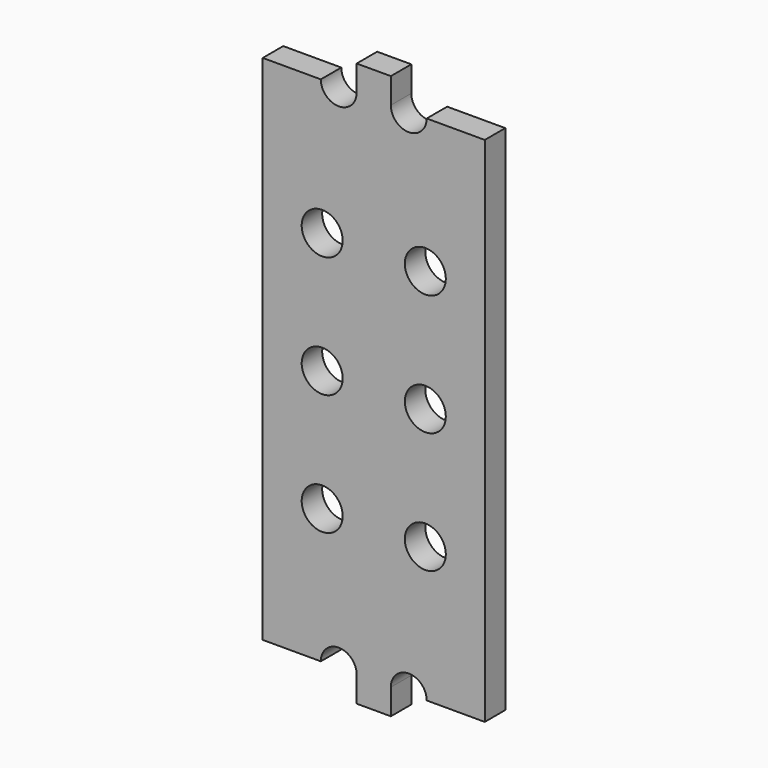
from build123d import *

# Parameters (mm, degrees)
F0_R     = 1.2
F1_DEPTH = 1.5


with BuildPart() as f1:
    # F0 (on Front) → F1 (new body)
    with BuildSketch(Plane.XZ):
        with BuildLine():
            ThreePointArc((-1, 15), (-2.05, 13.95), (-3.1, 15))
            Line((-3.1, 15), (-6.5, 15))
            Line((-6.5, 15), (-6.5, 0))
            Line((-6.5, 0), (-6.5, -15))
            Line((-6.5, -15), (-3.1, -15))
            ThreePointArc((-3.1, -15), (-2.05, -13.95), (-1, -15))
            Line((-1, -15), (-1, -16.5))
            Line((-1, -16.5), (1, -16.5))
            Line((1, -16.5), (1, -15))
            ThreePointArc((1, -15), (2.05, -13.95), (3.1, -15))
            Line((3.1, -15), (6.5, -15))
            Line((6.5, -15), (6.5, 0))
            Line((6.5, 0), (6.5, 15))
            Line((6.5, 15), (3.1, 15))
            ThreePointArc((3.1, 15), (2.05, 13.95), (1, 15))
            Line((1, 15), (1, 16.5))
            Line((1, 16.5), (-1, 16.5))
            Line((-1, 16.5), (-1, 15))
        make_face()
        with Locations((-3.019, -7.1)):
            Circle(F0_R, mode=Mode.SUBTRACT)
        with Locations((3.019, -7.1)):
            Circle(F0_R, mode=Mode.SUBTRACT)
        with Locations((-3.019, 0)):
            Circle(F0_R, mode=Mode.SUBTRACT)
        with Locations((-3.019, 7.1)):
            Circle(F0_R, mode=Mode.SUBTRACT)
        with Locations((3.019, 0)):
            Circle(F0_R, mode=Mode.SUBTRACT)
        with Locations((3.019, 7.1)):
            Circle(F0_R, mode=Mode.SUBTRACT)
    extrude(amount=F1_DEPTH)


solid = f1.part
